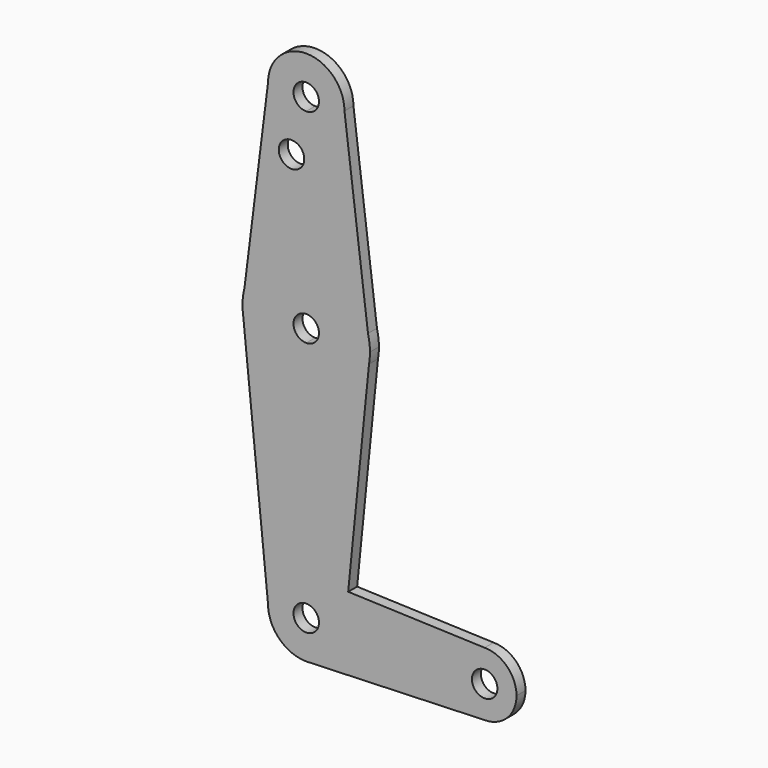
from build123d import *

# Parameters (mm, degrees)
F0_R     = 3.175
F1_DEPTH = 2.794


with BuildPart() as f1:
    # F0 (on Front) → F1 (new body)
    with BuildSketch(Plane.XZ):
        with BuildLine():
            Line((-37.5902472441, 5.1871481091), (-38.0787087825, 1.2794558015))
            ThreePointArc((-38.0787087825, 1.2794558015), (-38.0378492862, 0.1412029688), (-37.9154811276, -0.9911905332))
            ThreePointArc((-37.9154811276, -0.9911905332), (-32.5952706102, -10.7218386196), (-22.2037087825, -14.5955441985))
            Line((-22.2037087825, -14.5955441985), (-22.2037087825, -1.8955441985))
            ThreePointArc((-22.2037087825, -1.8955441985), (-25.3787087825, 1.2794558015), (-22.2037087825, 4.4544558015))
            Line((-22.2037087825, 4.4544558015), (-22.2037087825, 17.1544558015))
            ThreePointArc((-22.2037087825, 17.1544558015), (-31.9500160221, 13.8104222523), (-37.5902472441, 5.1871481091))
        make_face()
        with BuildLine():
            ThreePointArc((-37.5902472441, 5.1871481091), (-37.9561200754, 3.2485072131), (-38.0787087825, 1.2794558015))
            Line((-38.0787087825, 1.2794558015), (-37.5902472441, 5.1871481091))
        make_face()
        with BuildLine():
            ThreePointArc((-22.2037087825, -14.5955441985), (-32.5952706102, -10.7218386196), (-37.9154811276, -0.9911905332))
            Line((-37.9154811276, -0.9911905332), (-31.7287087825, -62.2205441985))
            ThreePointArc((-31.7287087825, -62.2205441985), (-28.9389008733, -55.4853521077), (-22.2037087825, -52.6955441985))
            Line((-22.2037087825, -52.6955441985), (-22.2037087825, -14.5955441985))
        make_face()
        with BuildLine():
            Line((-31.7287087825, 52.0794558015), (-37.5902472441, 5.1871481091))
            ThreePointArc((-37.5902472441, 5.1871481091), (-31.9500160221, 13.8104222523), (-22.2037087825, 17.1544558015))
            Line((-22.2037087825, 17.1544558015), (-22.2037087825, 38.2629670203))
            Line((-22.2037087825, 38.2629670203), (-22.2037087825, 42.5544558015))
            ThreePointArc((-22.2037087825, 42.5544558015), (-28.9389008733, 45.3442637107), (-31.7287087825, 52.0794558015))
        make_face()
        with Locations((-25.8746817708, 38.2629670203)):
            Circle(F0_R, mode=Mode.SUBTRACT)
        with BuildLine():
            Line((-22.2037087825, -1.8955441985), (-22.2037087825, -14.5955441985))
            ThreePointArc((-22.2037087825, -14.5955441985), (-11.9871413621, -10.871156329), (-6.5643326528, -1.4455284687))
            ThreePointArc((-6.5643326528, -1.4455284687), (-6.3877244461, -0.0881203281), (-6.3287087825, 1.2794558015))
            Line((-6.3287087825, 1.2794558015), (-6.817170321, 5.1871481091))
            ThreePointArc((-6.817170321, 5.1871481091), (-12.457401543, 13.8104222523), (-22.2037087825, 17.1544558015))
            Line((-22.2037087825, 17.1544558015), (-22.2037087825, 4.4544558015))
            ThreePointArc((-22.2037087825, 4.4544558015), (-19.9586447523, 3.5245198317), (-19.0287087825, 1.2794558015))
            ThreePointArc((-19.0287087825, 1.2794558015), (-19.9586447523, -0.9656082288), (-22.2037087825, -1.8955441985))
        make_face()
        with BuildLine():
            ThreePointArc((-6.5643326528, -1.4455284687), (-11.9871413621, -10.871156329), (-22.2037087825, -14.5955441985))
            Line((-22.2037087825, -14.5955441985), (-22.2037087825, -52.6955441985))
            ThreePointArc((-22.2037087825, -52.6955441985), (-21.8637469544, -52.7016130109), (-21.5242183367, -52.7198117145))
            Line((-21.5242183367, -52.7198117145), (-11.7579621852, -53.068606577))
            Line((-11.7579621852, -53.068606577), (-6.5643326528, -1.4455284687))
        make_face()
        with BuildLine():
            ThreePointArc((-22.2037087825, -52.6955441985), (-28.9389008733, -55.4853521077), (-31.7287087825, -62.2205441985))
            ThreePointArc((-31.7287087825, -62.2205441985), (-28.9389008733, -68.9557362893), (-22.2037087825, -71.7455441985))
            Line((-22.2037087825, -71.7455441985), (-21.5242183367, -71.7212766826))
            ThreePointArc((-21.5242183367, -71.7212766826), (-15.2324186761, -68.711055677), (-12.6787087825, -62.2205441985))
            Line((-12.6787087825, -62.2205441985), (-19.0287087825, -62.2205441985))
            ThreePointArc((-19.0287087825, -62.2205441985), (-24.4487728128, -64.4656082288), (-22.2037087825, -59.0455441985))
            Line((-22.2037087825, -59.0455441985), (-22.2037087825, -52.6955441985))
        make_face()
        with BuildLine():
            Line((-22.2037087825, 38.2629670203), (-22.2037087825, 17.1544558015))
            ThreePointArc((-22.2037087825, 17.1544558015), (-12.457401543, 13.8104222523), (-6.817170321, 5.1871481091))
            Line((-6.817170321, 5.1871481091), (-12.6787087825, 52.0794558015))
            ThreePointArc((-12.6787087825, 52.0794558015), (-15.4685166917, 45.3442637107), (-22.2037087825, 42.5544558015))
            Line((-22.2037087825, 42.5544558015), (-22.2037087825, 38.2629670203))
        make_face()
        with BuildLine():
            ThreePointArc((-12.6787087825, 52.0794558015), (-22.2037087825, 61.6044558015), (-31.7287087825, 52.0794558015))
            ThreePointArc((-31.7287087825, 52.0794558015), (-28.9389008733, 45.3442637107), (-22.2037087825, 42.5544558015))
            ThreePointArc((-22.2037087825, 42.5544558015), (-15.4685166917, 45.3442637107), (-12.6787087825, 52.0794558015))
        make_face()
        with BuildLine():
            ThreePointArc((-19.0287087825, 52.0794558015), (-19.9586447523, 49.8343917712), (-22.2037087825, 48.9044558015))
            ThreePointArc((-22.2037087825, 48.9044558015), (-24.4487728128, 54.3245198317), (-19.0287087825, 52.0794558015))
        make_face(mode=Mode.SUBTRACT)
        with BuildLine():
            Line((-21.5242183367, -71.7212766826), (-22.2037087825, -71.7455441985))
            ThreePointArc((-22.2037087825, -71.7455441985), (-21.8637469544, -71.7394753862), (-21.5242183367, -71.7212766826))
        make_face()
        with BuildLine():
            ThreePointArc((-6.3287087825, 1.2794558015), (-6.4512974897, 3.2485072131), (-6.817170321, 5.1871481091))
            Line((-6.817170321, 5.1871481091), (-6.3287087825, 1.2794558015))
        make_face()
        with BuildLine():
            Line((22.2462912175, -54.2830441985), (-11.7579621852, -53.068606577))
            Line((-11.7579621852, -53.068606577), (-12.6787087825, -62.2205441985))
            Line((-12.6787087825, -62.2205441985), (14.3087912175, -62.2205441985))
            ThreePointArc((14.3087912175, -62.2205441985), (16.6336311418, -56.6078841229), (22.2462912175, -54.2830441985))
        make_face()
        with BuildLine():
            Line((-12.6787087825, -62.2205441985), (-11.7579621852, -53.068606577))
            Line((-11.7579621852, -53.068606577), (-21.5242183367, -52.7198117145))
            ThreePointArc((-21.5242183367, -52.7198117145), (-15.2324186761, -55.7300327201), (-12.6787087825, -62.2205441985))
        make_face()
        with BuildLine():
            ThreePointArc((-12.6787087825, -62.2205441985), (-15.2324186761, -68.711055677), (-21.5242183367, -71.7212766826))
            Line((-21.5242183367, -71.7212766826), (22.2462912175, -70.1580441985))
            ThreePointArc((22.2462912175, -70.1580441985), (16.6336311418, -67.8332042742), (14.3087912175, -62.2205441985))
            Line((14.3087912175, -62.2205441985), (-12.6787087825, -62.2205441985))
        make_face()
        with BuildLine():
            ThreePointArc((30.1837912175, -62.2205441985), (27.8589512931, -56.6078841229), (22.2462912175, -54.2830441985))
            ThreePointArc((22.2462912175, -54.2830441985), (16.6336311418, -56.6078841229), (14.3087912175, -62.2205441985))
            ThreePointArc((14.3087912175, -62.2205441985), (16.6336311418, -67.8332042742), (22.2462912175, -70.1580441985))
            ThreePointArc((22.2462912175, -70.1580441985), (27.8589512931, -67.8332042742), (30.1837912175, -62.2205441985))
        make_face()
        with BuildLine():
            ThreePointArc((25.4212912175, -62.2205441985), (22.2462912175, -65.3955441985), (19.0712912175, -62.2205441985))
            ThreePointArc((19.0712912175, -62.2205441985), (22.2462912175, -59.0455441985), (25.4212912175, -62.2205441985))
        make_face(mode=Mode.SUBTRACT)
        with BuildLine():
            Line((-21.5242183367, -52.7198117145), (-22.2037087825, -52.6955441985))
            Line((-22.2037087825, -52.6955441985), (-22.2037087825, -59.0455441985))
            ThreePointArc((-22.2037087825, -59.0455441985), (-19.9586447523, -59.9754801683), (-19.0287087825, -62.2205441985))
            Line((-19.0287087825, -62.2205441985), (-12.6787087825, -62.2205441985))
            ThreePointArc((-12.6787087825, -62.2205441985), (-15.2324186761, -55.7300327201), (-21.5242183367, -52.7198117145))
        make_face()
    extrude(amount=F1_DEPTH)


solid = f1.part
